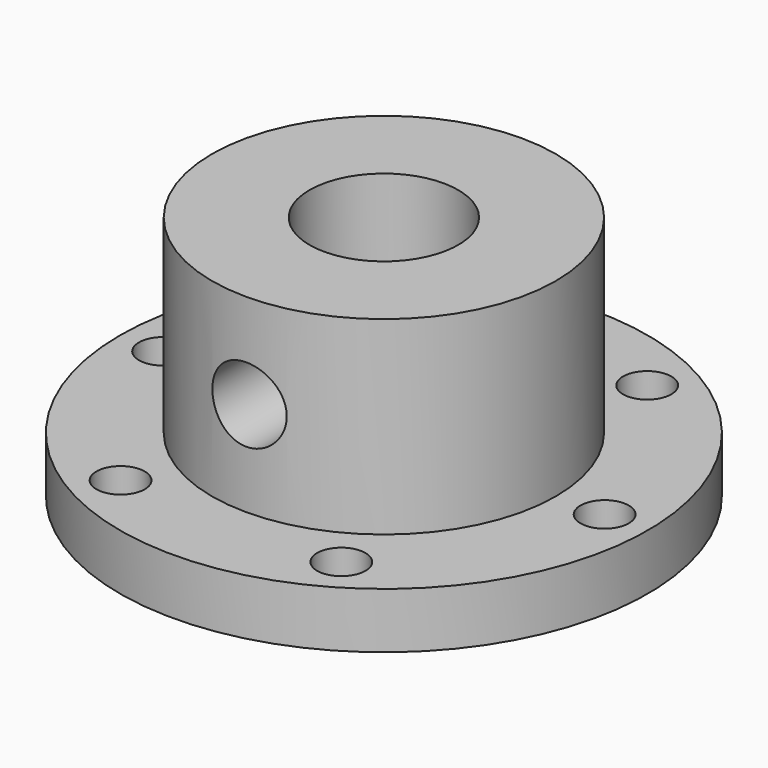
from build123d import *

# Parameters (mm, degrees)
F2_R     = 2.6
F3_DEPTH = 6.001
F4_R     = 4
F5_DEPTH = 25


with BuildPart() as f1:
    # F0 (on Front) → F1 (revolve)
    with BuildSketch(Plane.XZ):
        Polygon((-28.4, 0), (-8, 0), (-8, 26.4), (-18.5, 26.4), (-18.5, 6), (-28.4, 6), align=None)
    revolve(axis=Axis((0, 0, 21.514317), (0, 0, 1)))

    # F2 (on face) → F3 (cut, through all)
    with BuildSketch(Plane.XY.offset(6)):
        with Locations((-23.75, 0)):
            Circle(F2_R)
        with Locations((-11.875, -20.568103)):
            Circle(F2_R)
        with Locations((11.875, -20.568103)):
            Circle(F2_R)
        with Locations((23.75, 0)):
            Circle(F2_R)
        with Locations((11.875, 20.568103)):
            Circle(F2_R)
        with Locations((-11.875, 20.568103)):
            Circle(F2_R)
    extrude(amount=-F3_DEPTH, mode=Mode.SUBTRACT)

    # F4 (on Front) → F5 (cut)
    with BuildSketch(Plane.XZ):
        with Locations((0, 16.2)):
            Circle(F4_R)
    extrude(amount=F5_DEPTH, mode=Mode.SUBTRACT)


solid = f1.part
